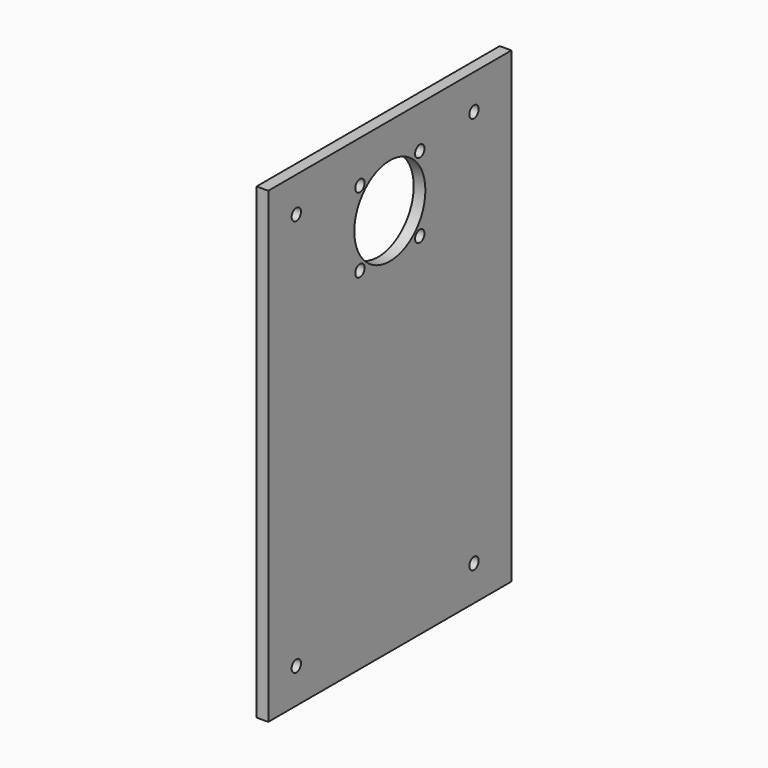
from build123d import *

# Parameters (mm, degrees)
SKETCH_W        = 130
SKETCH_H        = 200
PAD_DEPTH       = 2.5
SKETCH001_R     = 2.5
POCKET_DEPTH    = 5.001
SKETCH002_R     = 19
SKETCH002_R_2   = 2.5
POCKET001_DEPTH = 5.001


with BuildPart() as part:
    # Sketch → Pad (new body, symmetric)
    with BuildSketch(Plane.YZ):
        Rectangle(SKETCH_W, SKETCH_H)
    extrude(amount=PAD_DEPTH, both=True)

    # Sketch001 (on Face6 of Pad) → Pocket (cut, through all)
    with BuildSketch(Plane.YZ.offset(2.5)):
        with Locations((-50, 85)):
            Circle(SKETCH001_R)
        with Locations((45, 85)):
            Circle(SKETCH001_R)
        with Locations((-50, -85)):
            Circle(SKETCH001_R)
        with Locations((45, -85)):
            Circle(SKETCH001_R)
    extrude(amount=-POCKET_DEPTH, mode=Mode.SUBTRACT)

    # Sketch002 (on Face5 of Pocket) → Pocket001 (cut, through all)
    with BuildSketch(Plane.YZ.offset(2.5)):
        with Locations((0, 66)):
            Circle(SKETCH002_R)
        with Locations((-16, 82)):
            Circle(SKETCH002_R_2)
        with Locations((16, 82)):
            Circle(SKETCH002_R_2)
        with Locations((16, 50)):
            Circle(SKETCH002_R_2)
        with Locations((-16, 50)):
            Circle(SKETCH002_R_2)
    extrude(amount=-POCKET001_DEPTH, mode=Mode.SUBTRACT)


solid = part.part
